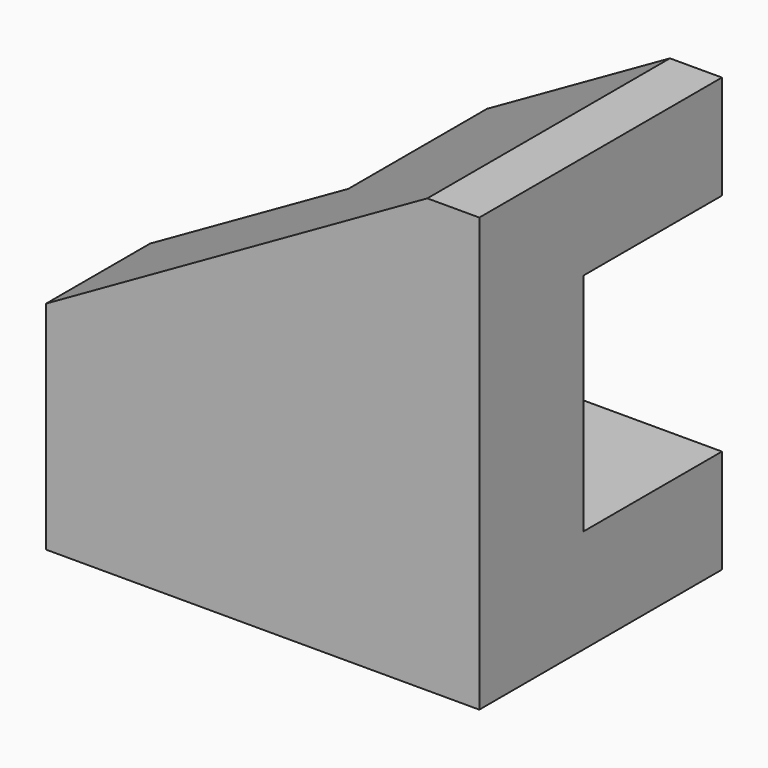
from build123d import *

# Parameters (mm, degrees)
F1_DEPTH = 35
F2_W     = 50
F2_H     = 26
F3_DEPTH = 20


with BuildPart() as f1:
    # F0 (on Front) → F1 (new body)
    with BuildSketch(Plane.XZ):
        Polygon((-50, 0), (0, 0), (0, 50), (-6, 50), (-50, 25), align=None)
        Polygon((-50, 0), (0, 0), (0, 50), (-6, 50), (-50, 25), align=None)
    extrude(amount=F1_DEPTH)

    # F2 (on Front) → F3 (cut)
    with BuildSketch(Plane.XZ):
        with Locations((-25, 25)):
            Rectangle(F2_W, F2_H)
    extrude(amount=F3_DEPTH, mode=Mode.SUBTRACT)


solid = f1.part
